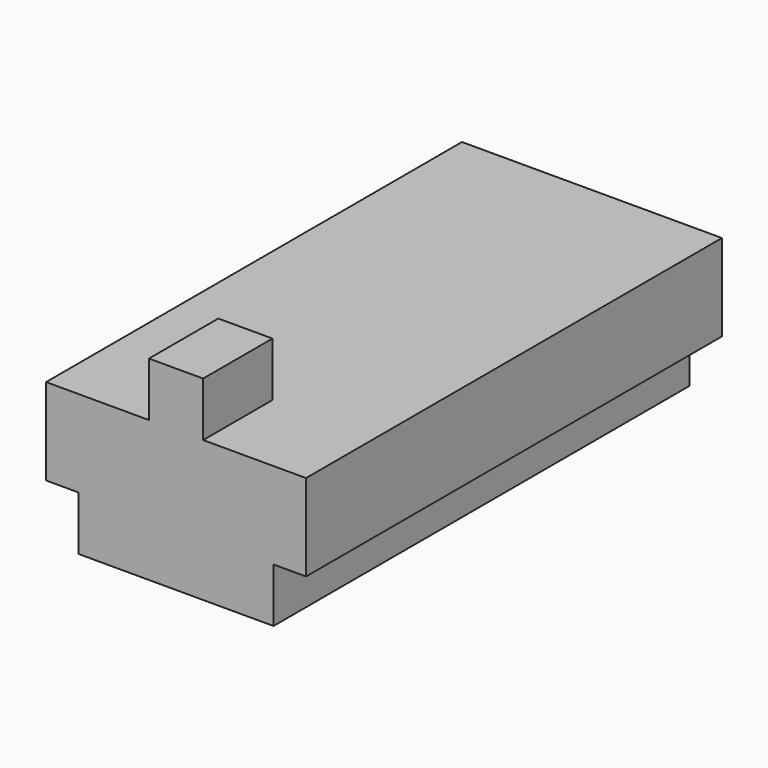
from build123d import *

# Parameters (mm, degrees)
F0_W     = 36
F0_H     = 96
F1_DEPTH = 10
F2_W     = 48
F2_H     = 96
F3_DEPTH = 16
F4_W     = 48
F4_H     = 16
F5_DEPTH = 10
F6_W     = 19
F6_H     = 16
F7_DEPTH = 10


with BuildPart() as f1:
    # F0 (on Top) → F1 (new body)
    with BuildSketch(Plane.XY):
        Rectangle(F0_W, F0_H)
    extrude(amount=F1_DEPTH)

    # F2 (on face) → F3 (join)
    with BuildSketch(Plane.XY.offset(10)):
        Rectangle(F2_W, F2_H)
    extrude(amount=F3_DEPTH)

    # F4 (on face) → F5 (join)
    with BuildSketch(Plane.XY.offset(26)):
        with Locations((0, -40)):
            Rectangle(F4_W, F4_H)
    extrude(amount=F5_DEPTH)

    # F6 (on face) → F7 (cut)
    with BuildSketch(Plane.XY.offset(36)):
        with Locations((-14.5, -40)):
            Rectangle(F6_W, F6_H)
        with Locations((14.5, -40)):
            Rectangle(F6_W, F6_H)
    extrude(amount=-F7_DEPTH, mode=Mode.SUBTRACT)


solid = f1.part
